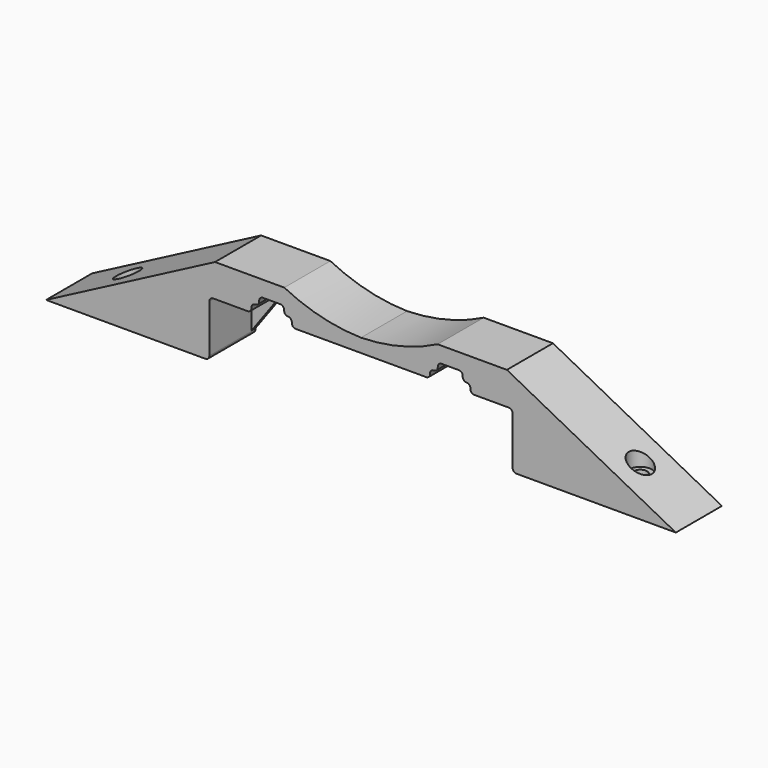
from build123d import *

# Parameters (mm, degrees)
F2_DEPTH = 15
F3_R     = 1.75
F4_DEPTH = 23.001
F5_R     = 3
F6_DEPTH = 4.5
F8_DEPTH = 1.2


with BuildPart() as f2:
    # F1 (on Front) → F2 (new body)
    with BuildSketch(Plane.XZ):
        with BuildLine():
            Line((-82, 0), (-40.5, 0))
            ThreePointArc((-40.5, 0), (-39.792893, 0.292893), (-39.5, 1))
            Line((-39.5, 1), (-39.5, 13.5))
            ThreePointArc((-39.5, 13.5), (-39.207107, 14.207107), (-38.5, 14.5))
            Line((-38.5, 14.5), (-29.5, 14.5))
            ThreePointArc((-29.5, 14.5), (-28.792893, 14.792893), (-28.5, 15.5))
            Line((-28.5, 15.5), (-28.5, 15.68045))
            ThreePointArc((-28.5, 15.68045), (-28.207107, 16.387557), (-27.5, 16.68045))
            ThreePointArc((-27.5, 16.68045), (-26.792893, 16.973344), (-26.5, 17.68045))
            Line((-26.5, 17.68045), (-26.5, 17.860901))
            ThreePointArc((-26.5, 17.860901), (-26.207107, 18.568008), (-25.5, 18.860901))
            Line((-25.5, 18.860901), (-21, 18.860901))
            ThreePointArc((-21, 18.860901), (-20.292893, 18.568008), (-20, 17.860901))
            Line((-20, 17.860901), (-20, 17.68045))
            ThreePointArc((-20, 17.68045), (-19.707107, 16.973344), (-19, 16.68045))
            ThreePointArc((-19, 16.68045), (-18.292893, 16.387557), (-18, 15.68045))
            Line((-18, 15.68045), (-18, 15.5))
            ThreePointArc((-18, 15.5), (-17.707107, 14.792893), (-17, 14.5))
            Line((-17, 14.5), (0, 14.5))
            Line((0, 14.5), (17, 14.5))
            ThreePointArc((17, 14.5), (17.707107, 14.792893), (18, 15.5))
            Line((18, 15.5), (18, 15.68045))
            ThreePointArc((18, 15.68045), (18.292893, 16.387557), (19, 16.68045))
            ThreePointArc((19, 16.68045), (19.707107, 16.973344), (20, 17.68045))
            Line((20, 17.68045), (20, 17.860901))
            ThreePointArc((20, 17.860901), (20.292893, 18.568008), (21, 18.860901))
            Line((21, 18.860901), (25.5, 18.860901))
            ThreePointArc((25.5, 18.860901), (26.207107, 18.568008), (26.5, 17.860901))
            Line((26.5, 17.860901), (26.5, 17.68045))
            ThreePointArc((26.5, 17.68045), (26.792893, 16.973344), (27.5, 16.68045))
            ThreePointArc((27.5, 16.68045), (28.207107, 16.387557), (28.5, 15.68045))
            Line((28.5, 15.68045), (28.5, 15.5))
            ThreePointArc((28.5, 15.5), (28.792893, 14.792893), (29.5, 14.5))
            Line((29.5, 14.5), (38.5, 14.5))
            ThreePointArc((38.5, 14.5), (39.207107, 14.207107), (39.5, 13.5))
            Line((39.5, 13.5), (39.5, 1))
            ThreePointArc((39.5, 1), (39.792893, 0.292893), (40.5, 0))
            Line((40.5, 0), (82, 0))
            Line((82, 0), (38, 23))
            Line((38, 23), (19.974391, 23))
            ThreePointArc((19.974391, 23), (10.263617, 19.399316), (0, 18.012873))
            ThreePointArc((0, 18.012873), (-10.263617, 19.399316), (-19.974391, 23))
            Line((-19.974391, 23), (-38, 23))
            Line((-38, 23), (-82, 0))
        make_face()
    extrude(amount=F2_DEPTH)

    # F3 (on Top) → F4 (cut, through all)
    with BuildSketch(Plane.XY):
        with Locations((66.75, -7.5)):
            Circle(F3_R)
        with Locations((-66.75, -7.5)):
            Circle(F3_R)
    extrude(amount=F4_DEPTH, mode=Mode.SUBTRACT)

    # F5 (on offset) → F6 (cut)
    with BuildSketch(Plane.XY.offset(10)):
        with Locations((-66.75, -7.505668)):
            Circle(F5_R)
        with Locations((66.75, -7.498881)):
            Circle(F5_R)
    extrude(amount=-F6_DEPTH, mode=Mode.SUBTRACT)

    # F7 (on Front) → F8 (join)
    with BuildSketch(Plane.XZ):
        with BuildLine():
            Line((-39.5, 13.5), (-39.5, 1.22279))
            Line((-39.5, 1.22279), (-29.826649, 14.5))
            Line((-29.826649, 14.5), (-38.5, 14.5))
            ThreePointArc((-38.5, 14.5), (-39.207107, 14.207107), (-39.5, 13.5))
        make_face()
        with BuildLine():
            Line((29.826649, 14.5), (39.5, 1.22279))
            Line((39.5, 1.22279), (39.5, 13.5))
            ThreePointArc((39.5, 13.5), (39.207107, 14.207107), (38.5, 14.5))
            Line((38.5, 14.5), (29.826649, 14.5))
        make_face()
    extrude(amount=F8_DEPTH)


solid = f2.part
